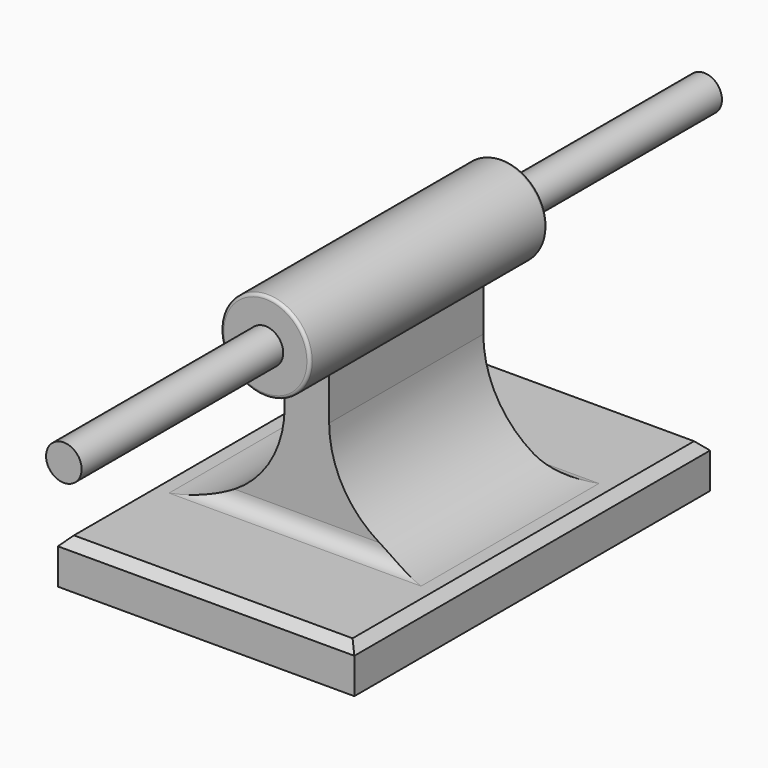
from build123d import *

# Parameters (mm, degrees)
F1_DEPTH  = 75
F2_W      = 15
F2_H      = 65
F3_DEPTH  = 70
F4_R      = 15
F5_DEPTH  = 50
F6_R      = 6
F7_DEPTH  = 85
F8_R      = 6
F9_DEPTH  = 85
F10_R     = 5
F11_DEPTH = 5
F12_R     = 35
F13_R     = 5
F14_SIZE  = 3
F15_R     = 1


with BuildPart() as f1:
    # F0 (on Front) → F1 (new body, symmetric)
    with BuildSketch(Plane.XZ):
        Polygon((50, -7.5), (50, 7.5), (-50, 7.5), (-50, -7.5), (-27.5, -7.5), (27.5, -7.5), align=None)
    extrude(amount=F1_DEPTH, both=True)

    # F2 (on Top) → F3 (join)
    with BuildSketch(Plane.XY):
        Rectangle(F2_W, F2_H)
    extrude(amount=F3_DEPTH)

    # F4 (on Front) → F5 (join, symmetric)
    with BuildSketch(Plane.XZ):
        with Locations((0, 69.991633)):
            Circle(F4_R)
    extrude(amount=F5_DEPTH, both=True)

    # F6 (on face) → F7 (join)
    with BuildSketch(Plane(origin=(0, 50, 0), x_dir=(-1, 0, 0), z_dir=(0, 1, 0))):
        with Locations((0, 69.991633)):
            Circle(F6_R)
    extrude(amount=F7_DEPTH)

    # F8 (on face) → F9 (join)
    with BuildSketch(Plane.XZ.offset(50)):
        with Locations((0, 69.991633)):
            Circle(F8_R)
    extrude(amount=F9_DEPTH)

    # F10 (on face) → F11 (join)
    with BuildSketch(Plane(origin=(0, 0, -7.5), x_dir=(1, 0, 0), z_dir=(0, 0, -1))):
        with Locations((-25, 50)):
            Circle(F10_R)
        with Locations((25, 50)):
            Circle(F10_R)
        with Locations((-25, -50)):
            Circle(F10_R)
        with Locations((25, -50)):
            Circle(F10_R)
    extrude(amount=F11_DEPTH)

    # F12
    f12_edges = [f1.edges().sort_by_distance(p)[0] for p in [
        (7.5, 0, 7.5),
        (-7.5, 0, 7.5),
    ]]
    fillet(f12_edges, radius=F12_R)

    # F13
    f13_edges = [f1.edges().sort_by_distance(p)[0] for p in [
        (25, -32.5, 7.5),
        (0, -32.5, 7.5),
        (-25, -32.5, 7.5),
        (25, 32.5, 7.5),
        (0, 32.5, 7.5),
        (-25, 32.5, 7.5),
    ]]
    fillet(f13_edges, radius=F13_R)

    # F14
    f14_edges = [f1.edges().sort_by_distance(p)[0] for p in [
        (-50, 0, 7.5),
        (0, 75, 7.5),
        (50, 0, 7.5),
        (0, -75, 7.5),
    ]]
    chamfer(f14_edges, length=F14_SIZE)

    # F15
    f15_edges = [f1.edges().sort_by_distance(p)[0] for p in [
        (-15, -50, 69.991633),
        (-15, 50, 69.991633),
    ]]
    fillet(f15_edges, radius=F15_R)


solid = f1.part
